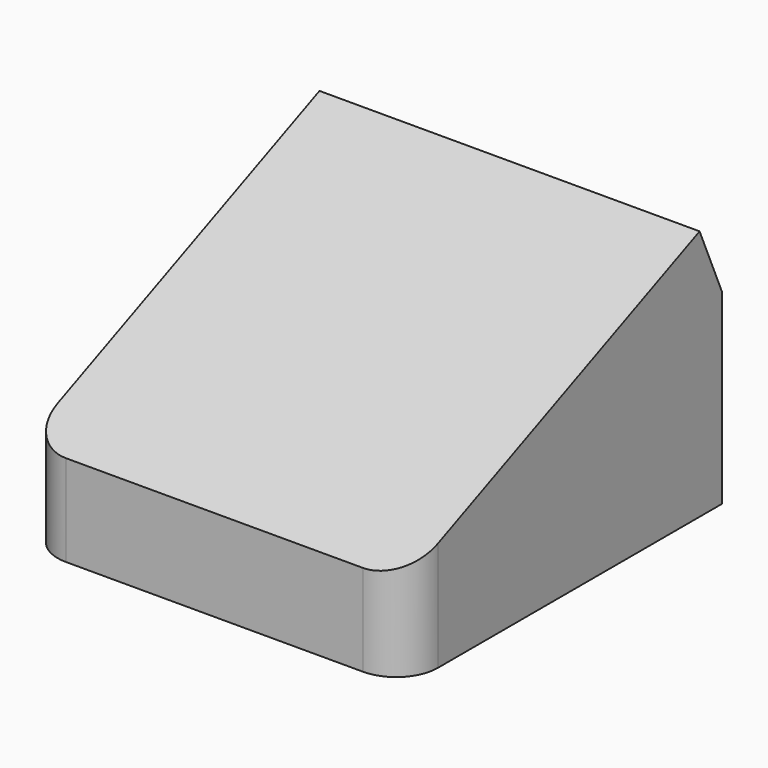
from build123d import *

# Parameters (mm, degrees)
SKETCH_W          = 91.5
SKETCH_H          = 95.5
PAD_DEPTH         = 60.5
POCKET_DEPTH      = 45.751
POCKET_DEPTH_BACK = 45.751
FILLET_R          = 10


with BuildPart() as part:
    # Sketch (on XY_Plane of Origin) → Pad (new body)
    with BuildSketch(Plane.XY):
        Rectangle(SKETCH_W, SKETCH_H)
    extrude(amount=PAD_DEPTH)

    # Sketch001 (on YZ_Plane of Origin) → Pocket (cut, two sides)
    with BuildSketch(Plane.YZ) as pocket_sk:
        Polygon((-47.75, 22), (41.028192, 60.5), (47.75, 45), (57.75, 45), (57.75, 70.5), (-57.75, 70.5), (-57.75, 22), align=None)
    extrude(amount=-POCKET_DEPTH, mode=Mode.SUBTRACT)
    extrude(pocket_sk.sketch, amount=POCKET_DEPTH_BACK, mode=Mode.SUBTRACT)

    # Fillet
    fillet_edges = [part.edges().sort_by_distance(p)[0] for p in [
        (45.75, -47.75, 11),
        (-45.75, -47.75, 11),
    ]]
    fillet(fillet_edges, radius=FILLET_R)


solid = part.part
